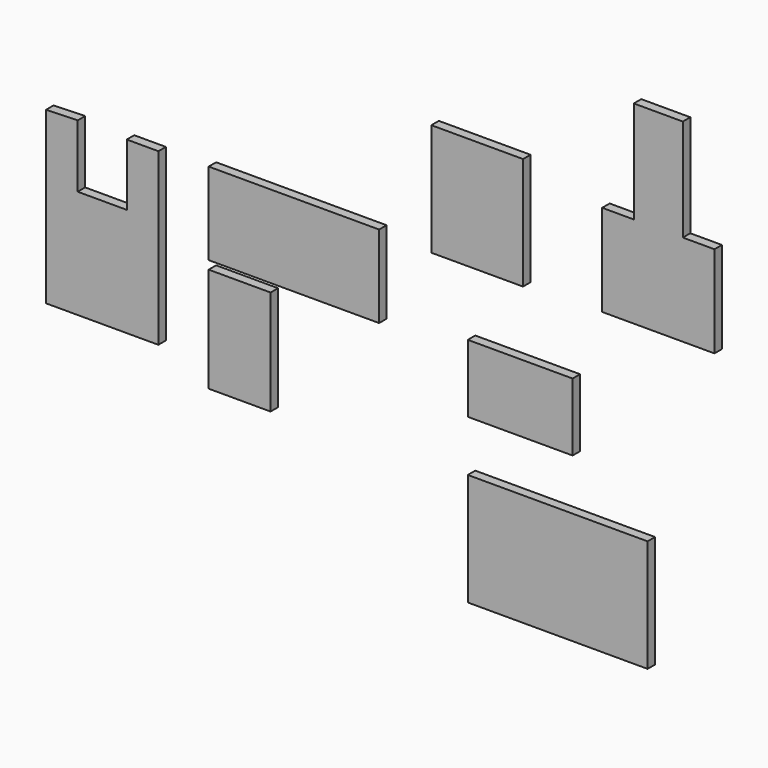
from build123d import *

# Parameters (mm, degrees)
F0_W     = 42.0116
F0_H     = 71.12
F0_W_2   = 62.23
F0_H_2   = 76.2
F0_W_3   = 71.12
F0_H_3   = 45.9994
F0_W_4   = 122.0216
F1_DEPTH = 6.35


with BuildPart() as f1:
    # F0 (on Front) → F1 (new body)
    with BuildSketch(Plane.XZ):
        Polygon((-136.985763, -1.306279), (-158.427313, -1.918894), (-158.427313, -117.590494), (-82.227313, -117.590494), (-82.227313, -1.918894), (-103.677613, -1.918894), (-103.677613, -43.930494), (-136.977013, -43.930494), align=None)
        with Locations((-27.090078, -97.141198)):
            Rectangle(F0_W, F0_H)
        Polygon((67.575722, -55.88), (67.575722, 0), (-48.095878, 0), (-48.095878, -55.88), (-6.084278, -55.88), align=None)
        with Locations((134.132725, 35.773376)):
            Rectangle(F0_W_2, F0_H_2)
        Polygon((240.393687, 62.23), (218.943387, 62.23), (218.943387, 0), (295.143387, 0), (295.143387, 62.23), (273.693087, 62.23), (273.693087, 131.5466), (240.393687, 131.5466), align=None)
        with Locations((163.320515, -69.312368)):
            Rectangle(F0_W_3, F0_H_3)
        with Locations((188.771315, -165.132944)):
            Rectangle(F0_W_4, F0_H_2)
    extrude(amount=F1_DEPTH)


solid = f1.part
